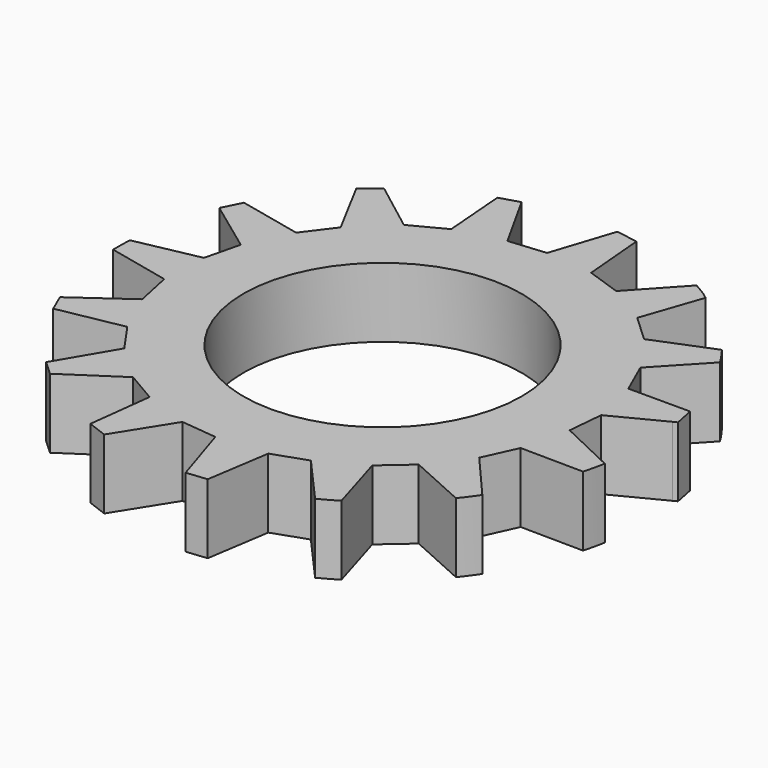
from build123d import *

# Parameters (mm, degrees)
F1_DEPTH = 2.54
F4_D     = 10.16
F4_DEPTH = 2.54
F4_TIP   = 3.0523719447


with BuildPart() as f1:
    # F0 (on Top) → F1 (new body)
    with BuildSketch(Plane.XY):
        with BuildLine():
            Line((-6.8331683087, -6.8155120711), (-6.2978819926, -7.3050655915))
            Line((-6.2978819926, -7.3050655915), (-4.316461231, -5.9911443529))
            Line((-4.316461231, -5.9911443529), (-3.1834454186, -6.6520702435))
            Line((-3.1834454186, -6.6520702435), (-3.4675601543, -8.9987342074))
            Line((-3.4675601543, -8.9987342074), (-2.7476248397, -9.2706777631))
            Line((-2.7476248397, -9.2706777631), (-1.4900637669, -7.2682696548))
            Line((-1.4900637669, -7.2682696548), (-0.1799902587, -7.4061532934))
            Line((-0.1799902587, -7.4061532934), (0.53803154, -9.6603514426))
            Line((0.53803154, -9.6603514426), (1.2835661727, -9.5852906378))
            Line((1.2835661727, -9.5852906378), (1.6418913593, -7.2682696548))
            Line((1.6418913593, -7.2682696548), (2.8590536505, -6.8429019717))
            Line((2.8590536505, -6.8429019717), (4.4267883674, -8.6114303767))
            ThreePointArc((4.4267883674, -8.6114303767), (4.7621164114, -8.430624868), (5.0900724152, -8.2367682491))
            Line((5.0900724152, -8.2367682491), (4.414810271, -5.9861610474))
            Line((4.414810271, -5.9861610474), (5.416404056, -5.1173232333))
            Line((5.416404056, -5.1173232333), (7.5402496681, -6.0743578528))
            ThreePointArc((7.5402496681, -6.0743578528), (7.7785505678, -5.7660505935), (8.0042534911, -5.4484047603))
            Line((8.0042534911, -5.4484047603), (6.4974054455, -3.7073606396))
            Line((6.4974054455, -3.7073606396), (7.0467623816, -2.5027365269))
            Line((7.0467623816, -2.5027365269), (9.3462724586, -2.5298971346))
            ThreePointArc((9.3462724586, -2.5298971346), (9.4419154496, -2.145558441), (9.5217606328, -1.757629891))
            Line((9.5217606328, -1.757629891), (7.4543519629, -0.7753081489))
            Line((7.4543519629, -0.7753081489), (7.5720577138, 0.515978468))
            Line((7.5720577138, 0.515978468), (9.4118826679, 1.4620667743))
            Line((9.4118826679, 1.4620667743), (9.5596825543, 1.5380695179))
            Line((9.5596825543, 1.5380695179), (9.416678635, 2.2537417481))
            ThreePointArc((9.416678635, 2.2537417481), (9.4137978769, 2.2657444506), (9.4109018198, 2.2777434708))
            Line((9.4109018198, 2.2777434708), (7.1536707948, 2.2777434708))
            Line((7.1536707948, 2.2777434708), (6.6120580312, 3.506264905))
            Line((6.6120580312, 3.506264905), (8.1813489345, 5.1786791747))
            ThreePointArc((8.1813489345, 5.1786791747), (7.9680827327, 5.5011676894), (7.7421121151, 5.8148850701))
            Line((7.7421121151, 5.8148850701), (5.5964540897, 4.9471179465))
            Line((5.5964540897, 4.9471179465), (4.619770739, 5.8493615309))
            Line((4.619770739, 5.8493615309), (5.3694094978, 8.0347383187))
            Line((5.3694094978, 8.0347383187), (5.1664119437, 8.1891010502))
            ThreePointArc((5.1664119437, 8.1891010502), (4.9301428504, 8.3334794568), (4.6898420519, 8.4710430237))
            Line((4.6898420519, 8.4710430237), (3.1182668573, 6.7673715214))
            Line((3.1182668573, 6.7673715214), (1.8562393493, 7.2027559673))
            Line((1.8562393493, 7.2027559673), (1.6558854627, 9.5211366727))
            Line((1.6558854627, 9.5211366727), (0.9290533371, 9.6379483438))
            ThreePointArc((0.9290533371, 9.6379483438), (0.8909600606, 9.641544407), (0.8528528712, 9.6449899099))
            Line((0.8528528712, 9.6449899099), (0.1102985869, 7.3744878367))
            Line((0.1102985869, 7.3744878367), (-1.2349347684, 7.2456887003))
            Line((-1.2349347684, 7.2456887003), (-2.4185909857, 9.3696708082))
            Line((-2.4185909857, 9.3696708082), (-3.128865287, 9.1543172047))
            Line((-3.128865287, 9.1543172047), (-2.9428471919, 6.8132407112))
            Line((-2.9428471919, 6.8132407112), (-4.1615320816, 6.1761889411))
            Line((-4.1615320816, 6.1761889411), (-6.016344287, 7.5866191285))
            ThreePointArc((-6.016344287, 7.5866191285), (-6.321753073, 7.3340729793), (-6.6165717429, 7.0692408894))
            Line((-6.6165717429, 7.0692408894), (-5.4735798935, 4.9287530222))
            Line((-5.4735798935, 4.9287530222), (-6.2615627322, 3.8819453014))
            Line((-6.2615627322, 3.8819453014), (-8.5762331436, 4.3989693402))
            Line((-8.5762331436, 4.3989693402), (-8.9240014984, 3.7051745846))
            Line((-8.9240014984, 3.7051745846), (-7.0272791194, 2.3135405903))
            Line((-7.0272791194, 2.3135405903), (-7.3407024127, 1.0249859563))
            Line((-7.3407024127, 1.0249859563), (-9.6667165043, 0.5547796031))
            ThreePointArc((-9.6667165043, 0.5547796031), (-9.6809513806, 0.1799131703), (-9.6806547422, -0.1952233199))
            Line((-9.6806547422, -0.1952233199), (-7.4054314828, -0.7064821591))
            Line((-7.4054314828, -0.7064821591), (-7.1172324763, -2.0714243811))
            Line((-7.1172324763, -2.0714243811), (-9.0316843933, -3.4364557412))
            Line((-9.0316843933, -3.4364557412), (-8.7383911794, -4.1093048652))
            Line((-8.7383911794, -4.1093048652), (-6.3862953563, -3.6664897539))
            Line((-6.3862953563, -3.6664897539), (-5.6214329554, -4.7591500254))
            Line((-5.6214329554, -4.7591500254), (-6.8331683087, -6.8155120711))
        make_face()
    extrude(amount=F1_DEPTH)


with BuildPart() as f1_1:
    # F3: moved
    add(f1.part)

    # F4
    with Locations(Plane(origin=(0, 0, 0), x_dir=(1, 0, 0), z_dir=(0, 0, -1))):
        with Locations((0, 0)):
            Hole(F4_D / 2, depth=F4_DEPTH)
            with Locations((0, 0, -(F4_DEPTH + F4_TIP / 2))):  # 118° drill point
                Cone(0, F4_D / 2, F4_TIP, mode=Mode.SUBTRACT)


solid = f1_1.part
